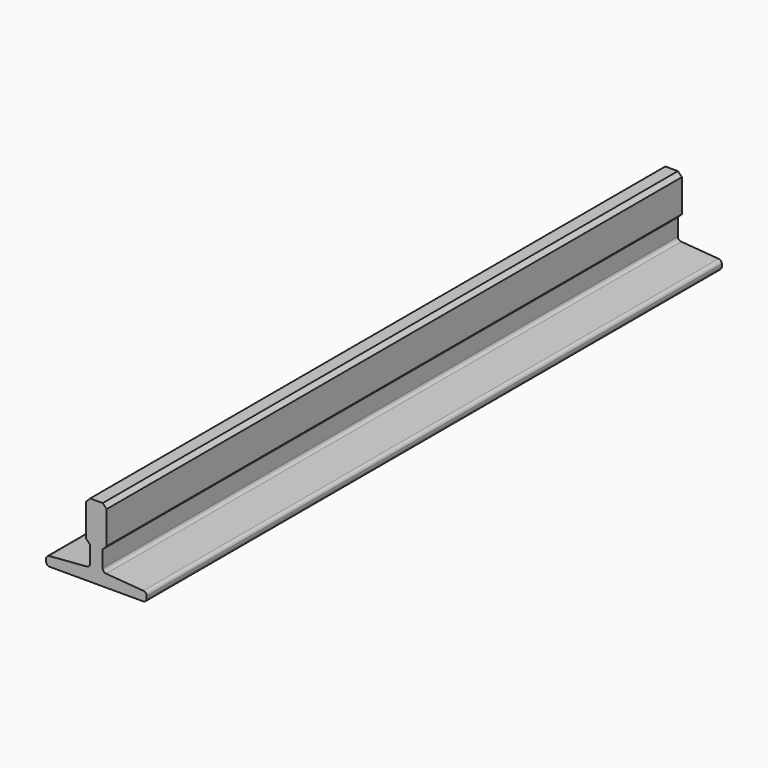
from build123d import *

# Parameters (mm, degrees)
F1_DEPTH = 1000


with BuildPart() as f1:
    # F0 (on Front) → F1 (new body)
    with BuildSketch(Plane.XZ):
        with BuildLine():
            ThreePointArc((0, 5), (1.464466, 1.464466), (5, 0))
            Line((5, 0), (135, 0))
            ThreePointArc((135, 0), (138.535534, 1.464466), (140, 5))
            Line((140, 5), (140, 8.076507))
            ThreePointArc((140, 8.076507), (138.671049, 11.47112), (135.390639, 13.061223))
            Line((135.390639, 13.061223), (83.359361, 17.138777))
            ThreePointArc((83.359361, 17.138777), (80.078951, 18.72888), (78.75, 22.123493))
            Line((78.75, 22.123493), (78.75, 45.45))
            Line((78.75, 45.45), (84.3, 51))
            Line((84.3, 51), (84.3, 96.45))
            Line((84.3, 96.45), (78.75, 102))
            Line((78.75, 102), (61.25, 102))
            Line((61.25, 102), (55.7, 96.45))
            Line((55.7, 96.45), (55.7, 51))
            Line((55.7, 51), (61.25, 45.45))
            Line((61.25, 45.45), (61.25, 22.123493))
            ThreePointArc((61.25, 22.123493), (59.921049, 18.72888), (56.640639, 17.138777))
            Line((56.640639, 17.138777), (4.609361, 13.061223))
            ThreePointArc((4.609361, 13.061223), (1.328951, 11.47112), (0, 8.076507))
            Line((0, 8.076507), (0, 5))
        make_face()
    extrude(amount=-F1_DEPTH)


solid = f1.part
